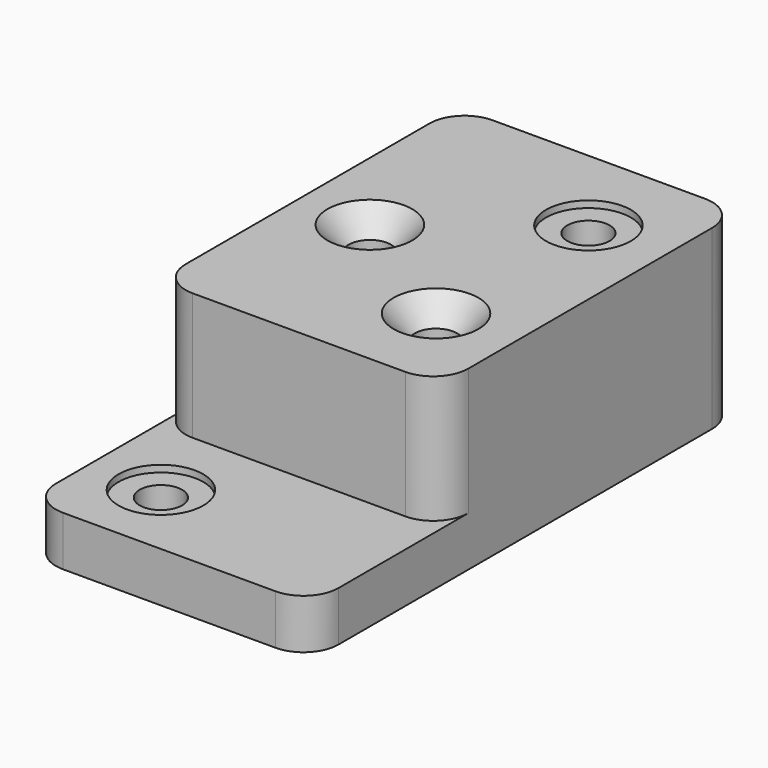
from build123d import *

# Parameters (mm, degrees)
F1_DEPTH             = 63.5
F2_R                 = 15.748
F5_D                 = 19.05
F5_CBORE_D           = 38.1
F5_CBORE_DEPTH       = 3.048
F5_ON_F4_D           = 19.05
F5_ON_F4_CBORE_D     = 38.1
F5_ON_F4_CBORE_DEPTH = 3.048
F6_D                 = 19.05
F6_CSINK_D           = 38.1
F6_CSINK_ANGLE       = 82


with BuildPart() as f1:
    # F0 (on Right) → F1 (new body, symmetric)
    with BuildSketch(Plane.YZ):
        Polygon((-47.752, 22.352), (-120.65, 22.352), (-120.65, 0), (120.65, 0), (120.65, 79.502), (-47.752, 79.502), align=None)
    extrude(amount=F1_DEPTH, both=True)

    # F2
    f2_edges = [f1.edges().sort_by_distance(p)[0] for p in [
        (63.5, -47.752, 50.927),
        (-63.5, -47.752, 50.927),
        (63.5, -120.65, 11.176),
        (-63.5, -120.65, 11.176),
        (63.5, 120.65, 39.751),
        (-63.5, 120.65, 39.751),
    ]]
    fillet(f2_edges, radius=F2_R)

    # F5 (through all)
    with Locations(Plane.XY.offset(22.352)):
        with Locations((-31.75, -85.598)):
            CounterBoreHole(F5_D / 2, F5_CBORE_D / 2, F5_CBORE_DEPTH)

    # F5 on F4 (through all)
    with Locations(Plane.XY.offset(79.502)):
        with Locations((28.448, 79.248)):
            CounterBoreHole(F5_ON_F4_D / 2, F5_ON_F4_CBORE_D / 2, F5_ON_F4_CBORE_DEPTH)

    # F6 (through all)
    with Locations(Plane.XY.offset(79.502)):
        with Locations((28.448, -6.35), (-31.75, 31.75)):
            CounterSinkHole(F6_D / 2, F6_CSINK_D / 2, counter_sink_angle=F6_CSINK_ANGLE)


solid = f1.part
